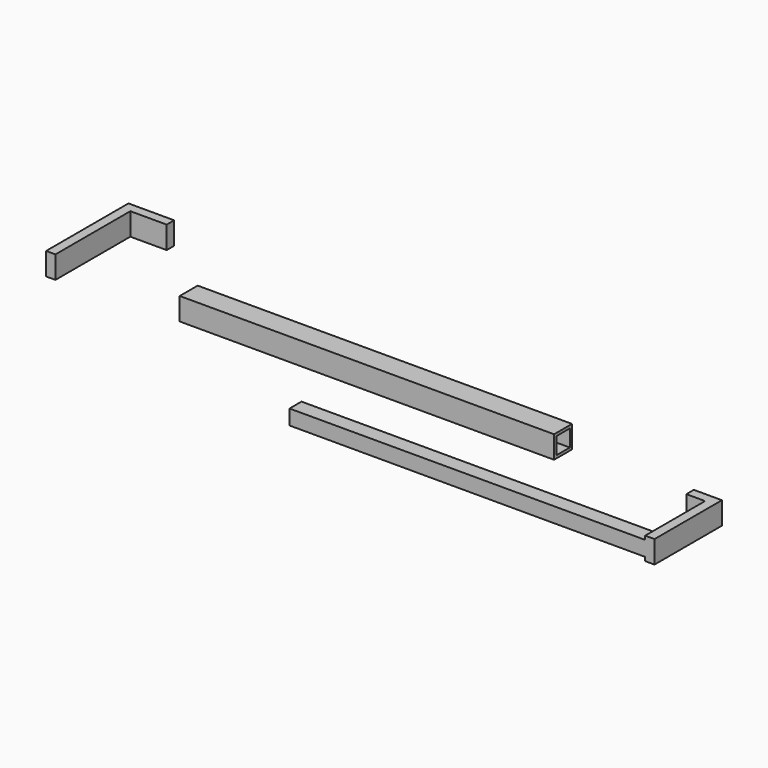
from build123d import *

# Parameters (mm, degrees)
F1_DEPTH = 6.096
F2_W     = 101.6
F2_H     = 6.096
F3_DEPTH = 6.096
F4_W     = 4.572
F4_H     = 4.572
F5_DEPTH = 88.9
F7_DEPTH = 6.096
F8_W     = 4.064
F8_H     = 4.064
F9_DEPTH = 96.52


with BuildPart() as f1:
    # F0 (on Top) → F1 (new body)
    with BuildSketch(Plane.XY):
        Polygon((-26.877569, 2.36775), (-26.877569, 4.90775), (-39.295337, 4.90775), (-39.295337, -23.03225), (-36.755337, -23.03225), (-36.755337, 2.36775), align=None)
    extrude(amount=F1_DEPTH)


with BuildPart() as f3:
    # F2 (on Top) → F3 (new body)
    with BuildSketch(Plane.XY):
        with Locations((46.528293, -18.435688)):
            Rectangle(F2_W, F2_H)
    extrude(amount=F3_DEPTH)

    # F4 (on face) → F5 (cut)
    with BuildSketch(Plane.YZ.offset(97.328293)):
        with Locations((-18.435688, 3.048)):
            Rectangle(F4_W, F4_H)
    extrude(amount=-F5_DEPTH, mode=Mode.SUBTRACT)


with BuildPart() as f7:
    # F6 (on Top) → F7 (new body)
    with BuildSketch(Plane.XY):
        Polygon((141.459931, -25.428247), (141.459931, -45.748247), (143.999931, -45.748247), (143.999931, -22.888247), (136.379931, -22.888247), (136.379931, -25.428247), align=None)
    extrude(amount=F7_DEPTH)

    # F8 (on face) → F9 (join)
    with BuildSketch(Plane(origin=(141.459931, 0, 0), x_dir=(0, -1, 0), z_dir=(-1, 0, 0))):
        with Locations((43.716247, 3.048)):
            Rectangle(F8_W, F8_H)
    extrude(amount=F9_DEPTH)


solid = Compound([f1.part, f3.part, f7.part])
